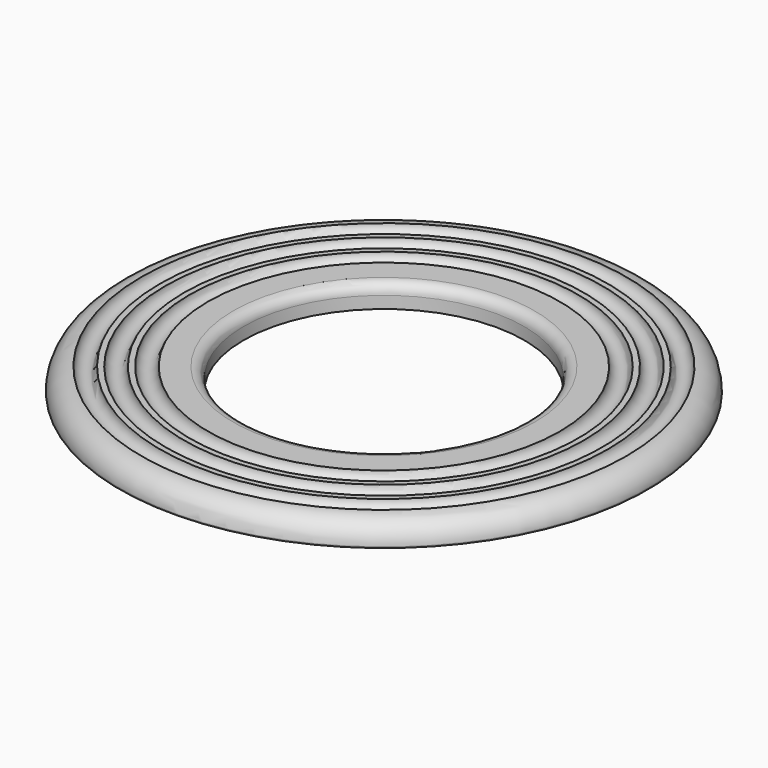
from build123d import *


with BuildPart() as f1:
    # F0 (on Front) → F1 (revolve)
    with BuildSketch(Plane.XZ):
        with BuildLine():
            Line((-47, 0), (-25, 0))
            Line((-25, 0), (-25, 2.153314))
            ThreePointArc((-25, 2.153314), (-25.540882, 3.459118), (-26.846686, 4))
            Line((-26.846686, 4), (-31.317486, 4))
            ThreePointArc((-31.317486, 4), (-32.962467, 2.355019), (-34.607448, 4))
            Line((-34.607448, 4), (-35.60702, 4))
            ThreePointArc((-35.60702, 4), (-37.252001, 2.355019), (-38.896982, 4))
            Line((-38.896982, 4), (-39.892434, 4))
            ThreePointArc((-39.892434, 4), (-41.537415, 2.355019), (-43.182396, 4))
            Line((-43.182396, 4), (-43.205198, 4))
            ThreePointArc((-43.205198, 4), (-45.888528, 2.888528), (-47, 0.205198))
            Line((-47, 0.205198), (-47, 0))
        make_face()
    revolve(axis=Axis((0, 0, 2), (0, 0, 1)))


solid = f1.part
